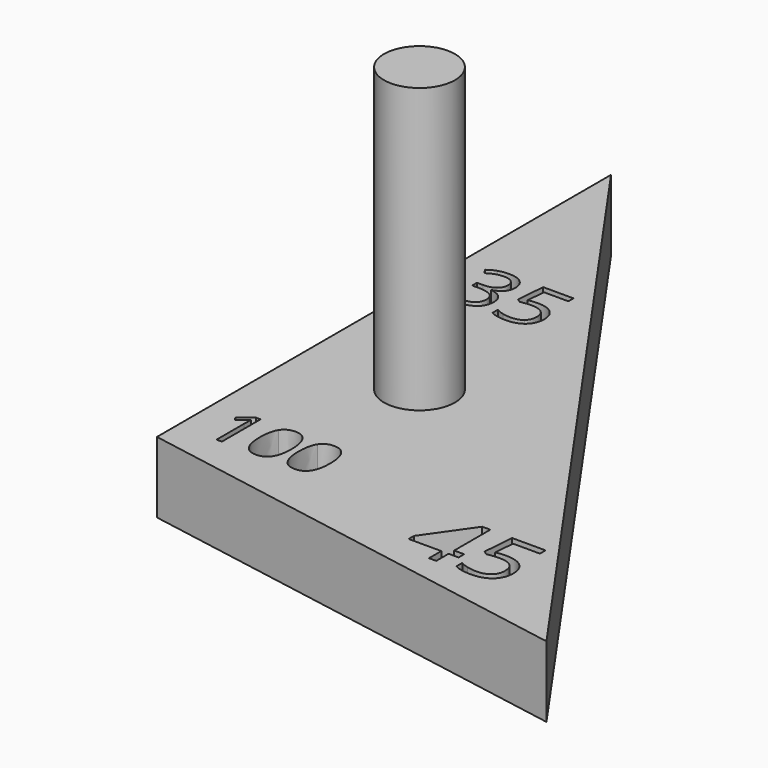
from build123d import *

# Parameters (mm, degrees)
F1_DEPTH = 6.35
F2_R     = 3.175
F3_DEPTH = 25.4


with BuildPart() as f1:
    # F0 (on Top) → F1 (new body)
    with BuildSketch(Plane.XY):
        Polygon((0, 50.8), (0, 0), (40.5808809275, -7.1555042084), align=None)
        with BuildLine():
            Line((3.9918560175, 6.6033309618), (3.9918560175, 2.2795035038))
            Line((3.9918560175, 2.2795035038), (3.5130079777, 2.2795035038))
            Line((3.5130079777, 2.2795035038), (3.5130079777, 5.3607865423))
            add(Edge.make_bspline(
                [(3.5130079777, 5.3607865423), (3.5130079777, 5.7459469222), (3.5366664777, 6.088522002)],
                knots=[0, 0, 0, 1, 1, 1], degree=2))
            add(Edge.make_bspline(
                [(3.5366664777, 6.088522002), (3.4751543778, 6.026063562), (3.3980276678, 5.9584002521)],
                knots=[0, 0, 0, 1, 1, 1], degree=2))
            add(Edge.make_bspline(
                [(3.3980276678, 5.9584002521), (3.3209009578, 5.8907369421), (2.6944238781, 5.3816060223)],
                knots=[0, 0, 0, 1, 1, 1], degree=2))
            Line((2.6944238781, 5.3816060223), (2.4341803783, 5.7185030622))
            Line((2.4341803783, 5.7185030622), (3.5783054377, 6.6033309618))
            Line((3.5783054377, 6.6033309618), (3.9918560175, 6.6033309618))
        make_face(mode=Mode.SUBTRACT)
        with BuildLine():
            add(Edge.make_bspline(
                [(8.1368252155, 6.100351252), (8.5021124554, 5.5292350623), (8.5021124554, 4.4475684428)],
                knots=[0, 0, 0, 1, 1, 1], degree=2))
            add(Edge.make_bspline(
                [(8.5021124554, 4.4475684428), (8.5021124554, 3.3261555433), (8.1486544655, 2.7730198136)],
                knots=[0, 0, 0, 1, 1, 1], degree=2))
            add(Edge.make_bspline(
                [(8.1486544655, 2.7730198136), (7.7951964757, 2.2198840838), (7.067461016, 2.2198840838)],
                knots=[0, 0, 0, 1, 1, 1], degree=2))
            add(Edge.make_bspline(
                [(7.067461016, 2.2198840838), (6.3700084364, 2.2198840838), (6.0061407066, 2.7862685736)],
                knots=[0, 0, 0, 1, 1, 1], degree=2))
            add(Edge.make_bspline(
                [(6.0061407066, 2.7862685736), (5.6422729767, 3.3526530633), (5.6422729767, 4.4475684428)],
                knots=[0, 0, 0, 1, 1, 1], degree=2))
            add(Edge.make_bspline(
                [(5.6422729767, 4.4475684428), (5.6422729767, 5.5765520622), (5.9943114566, 6.124009752)],
                knots=[0, 0, 0, 1, 1, 1], degree=2))
            add(Edge.make_bspline(
                [(5.9943114566, 6.124009752), (6.3463499364, 6.6714674417), (7.067461016, 6.6714674417)],
                knots=[0, 0, 0, 1, 1, 1], degree=2))
            add(Edge.make_bspline(
                [(7.067461016, 6.6714674417), (7.7715379757, 6.6714674417), (8.1368252155, 6.100351252)],
                knots=[0, 0, 0, 1, 1, 1], degree=2))
        make_face(mode=Mode.SUBTRACT)
        with BuildLine():
            add(Edge.make_bspline(
                [(11.5994832739, 6.100351252), (11.9647705137, 5.5292350623), (11.9647705137, 4.4475684428)],
                knots=[0, 0, 0, 1, 1, 1], degree=2))
            add(Edge.make_bspline(
                [(11.9647705137, 4.4475684428), (11.9647705137, 3.3261555433), (11.6113125239, 2.7730198136)],
                knots=[0, 0, 0, 1, 1, 1], degree=2))
            add(Edge.make_bspline(
                [(11.6113125239, 2.7730198136), (11.2578545341, 2.2198840838), (10.5301190744, 2.2198840838)],
                knots=[0, 0, 0, 1, 1, 1], degree=2))
            add(Edge.make_bspline(
                [(10.5301190744, 2.2198840838), (9.8326664947, 2.2198840838), (9.4687987649, 2.7862685736)],
                knots=[0, 0, 0, 1, 1, 1], degree=2))
            add(Edge.make_bspline(
                [(9.4687987649, 2.7862685736), (9.1049310351, 3.3526530633), (9.1049310351, 4.4475684428)],
                knots=[0, 0, 0, 1, 1, 1], degree=2))
            add(Edge.make_bspline(
                [(9.1049310351, 4.4475684428), (9.1049310351, 5.5765520622), (9.4569695149, 6.124009752)],
                knots=[0, 0, 0, 1, 1, 1], degree=2))
            add(Edge.make_bspline(
                [(9.4569695149, 6.124009752), (9.8090079947, 6.6714674417), (10.5301190744, 6.6714674417)],
                knots=[0, 0, 0, 1, 1, 1], degree=2))
            add(Edge.make_bspline(
                [(10.5301190744, 6.6714674417), (11.2341960341, 6.6714674417), (11.5994832739, 6.100351252)],
                knots=[0, 0, 0, 1, 1, 1], degree=2))
        make_face(mode=Mode.SUBTRACT)
        Polygon((27.8564916644, -0.4564887798), (27.8564916644, -1.0779461554), (26.9638050104, -1.0779461554), (26.9638050104, -2.4604254868), (26.3094314602, -2.4604254868), (26.3094314602, -1.0779461554), (23.3838418656, -1.0779461554), (23.3838418656, -0.4815050725), (26.2396491701, 3.5882507497), (26.9638050104, 3.5882507497), (26.9638050104, -0.4564887798), align=None, mode=Mode.SUBTRACT)
        with BuildLine():
            add(Edge.make_bspline(
                [(29.3745856349, 1.119537658), (29.8472619015, 1.2143362407), (30.3173048742, 1.2143362407)],
                knots=[0, 0, 0, 1, 1, 1], degree=2))
            add(Edge.make_bspline(
                [(30.3173048742, 1.2143362407), (31.2679239954, 1.2143362407), (31.813015846, 0.742976621)],
                knots=[0, 0, 0, 1, 1, 1], degree=2))
            add(Edge.make_bspline(
                [(31.813015846, 0.742976621), (32.3581076967, 0.2716170014), (32.3581076967, -0.5473374216)],
                knots=[0, 0, 0, 1, 1, 1], degree=2))
            add(Edge.make_bspline(
                [(32.3581076967, -0.5473374216), (32.3581076967, -1.480840132), (31.7636415842, -2.0121071893)],
                knots=[0, 0, 0, 1, 1, 1], degree=2))
            add(Edge.make_bspline(
                [(31.7636415842, -2.0121071893), (31.1691754717, -2.5433742467), (30.1237577678, -2.5433742467)],
                knots=[0, 0, 0, 1, 1, 1], degree=2))
            add(Edge.make_bspline(
                [(30.1237577678, -2.5433742467), (29.1073062975, -2.5433742467), (28.5727476227, -2.2181624421)],
                knots=[0, 0, 0, 1, 1, 1], degree=2))
            Line((28.5727476227, -2.2181624421), (28.5727476227, -1.5598389509))
            add(Edge.make_bspline(
                [(28.5727476227, -1.5598389509), (28.8597766648, -1.7441695284), (29.2876869341, -1.849501287)],
                knots=[0, 0, 0, 1, 1, 1], degree=2))
            add(Edge.make_bspline(
                [(29.2876869341, -1.849501287), (29.7155972033, -1.9548330456), (30.1316576497, -1.9548330456)],
                knots=[0, 0, 0, 1, 1, 1], degree=2))
            add(Edge.make_bspline(
                [(30.1316576497, -1.9548330456), (30.8558134899, -1.9548330456), (31.256732496, -1.6131631537)],
                knots=[0, 0, 0, 1, 1, 1], degree=2))
            add(Edge.make_bspline(
                [(31.256732496, -1.6131631537), (31.6576515021, -1.2714932618), (31.6576515021, -0.6250195935)],
                knots=[0, 0, 0, 1, 1, 1], degree=2))
            add(Edge.make_bspline(
                [(31.6576515021, -0.6250195935), (31.6576515021, 0.6336949215), (30.1158578859, 0.6336949215)],
                knots=[0, 0, 0, 1, 1, 1], degree=2))
            add(Edge.make_bspline(
                [(30.1158578859, 0.6336949215), (29.7248137322, 0.6336949215), (29.070440182, 0.5138800461)],
                knots=[0, 0, 0, 1, 1, 1], degree=2))
            Line((29.070440182, 0.5138800461), (28.7162621438, 0.7403433271))
            Line((28.7162621438, 0.7403433271), (28.9427254247, 3.5553345751))
            Line((28.9427254247, 3.5553345751), (31.9341473684, 3.5553345751))
            Line((31.9341473684, 3.5553345751), (31.9341473684, 2.9259773176))
            Line((31.9341473684, 2.9259773176), (29.5273166848, 2.9259773176))
            Line((29.5273166848, 2.9259773176), (29.3745856349, 1.119537658))
        make_face(mode=Mode.SUBTRACT)
        with BuildLine():
            add(Edge.make_bspline(
                [(5.0239537206, 34.2728606786), (5.4651021183, 33.9088235862), (5.4651021183, 33.2740002822)],
                knots=[0, 0, 0, 1, 1, 1], degree=2))
            add(Edge.make_bspline(
                [(5.4651021183, 33.2740002822), (5.4651021183, 32.7503607207), (5.1716009486, 32.4180050173)],
                knots=[0, 0, 0, 1, 1, 1], degree=2))
            add(Edge.make_bspline(
                [(5.1716009486, 32.4180050173), (4.8780997788, 32.0856493139), (4.340113928, 31.9732700473)],
                knots=[0, 0, 0, 1, 1, 1], degree=2))
            Line((4.340113928, 31.9732700473), (4.340113928, 31.9433819444))
            add(Edge.make_bspline(
                [(4.340113928, 31.9433819444), (4.9976521901, 31.8620863047), (5.3150638421, 31.5255462669)],
                knots=[0, 0, 0, 1, 1, 1], degree=2))
            add(Edge.make_bspline(
                [(5.3150638421, 31.5255462669), (5.6324754941, 31.1890062291), (5.6324754941, 30.6438472336)],
                knots=[0, 0, 0, 1, 1, 1], degree=2))
            add(Edge.make_bspline(
                [(5.6324754941, 30.6438472336), (5.6324754941, 29.8631699879), (5.0909030709, 29.4423455001)],
                knots=[0, 0, 0, 1, 1, 1], degree=2))
            add(Edge.make_bspline(
                [(5.0909030709, 29.4423455001), (4.5493306478, 29.0215210123), (3.5522635375, 29.0215210123)],
                knots=[0, 0, 0, 1, 1, 1], degree=2))
            add(Edge.make_bspline(
                [(3.5522635375, 29.0215210123), (3.1182882845, 29.0215210123), (2.7578377645, 29.0872748385)],
                knots=[0, 0, 0, 1, 1, 1], degree=2))
            add(Edge.make_bspline(
                [(2.7578377645, 29.0872748385), (2.3973872444, 29.1530286648), (2.0578583963, 29.3168154682)],
                knots=[0, 0, 0, 1, 1, 1], degree=2))
            Line((2.0578583963, 29.3168154682), (2.0578583963, 29.90740438))
            add(Edge.make_bspline(
                [(2.0578583963, 29.90740438), (2.4129290579, 29.7316623354), (2.8146251598, 29.6402047408)],
                knots=[0, 0, 0, 1, 1, 1], degree=2))
            add(Edge.make_bspline(
                [(2.8146251598, 29.6402047408), (3.2163212618, 29.5487471461), (3.5749784957, 29.5487471461)],
                knots=[0, 0, 0, 1, 1, 1], degree=2))
            add(Edge.make_bspline(
                [(3.5749784957, 29.5487471461), (4.9904790454, 29.5487471461), (4.9904790454, 30.658193523)],
                knots=[0, 0, 0, 1, 1, 1], degree=2))
            add(Edge.make_bspline(
                [(4.9904790454, 30.658193523), (4.9904790454, 31.652869585), (3.4291245539, 31.652869585)],
                knots=[0, 0, 0, 1, 1, 1], degree=2))
            Line((3.4291245539, 31.652869585), (2.8911387031, 31.652869585))
            Line((2.8911387031, 31.652869585), (2.8911387031, 32.1860733394))
            Line((2.8911387031, 32.1860733394), (3.4362976986, 32.1860733394))
            add(Edge.make_bspline(
                [(3.4362976986, 32.1860733394), (4.0747075749, 32.1860733394), (4.4483088602, 32.46821703)],
                knots=[0, 0, 0, 1, 1, 1], degree=2))
            add(Edge.make_bspline(
                [(4.4483088602, 32.46821703), (4.8219101455, 32.7503607207), (4.8219101455, 33.251285324)],
                knots=[0, 0, 0, 1, 1, 1], degree=2))
            add(Edge.make_bspline(
                [(4.8219101455, 33.251285324), (4.8219101455, 33.6505903778), (4.5475373616, 33.8789354833)],
                knots=[0, 0, 0, 1, 1, 1], degree=2))
            add(Edge.make_bspline(
                [(4.5475373616, 33.8789354833), (4.2731645777, 34.1072805889), (3.8021280771, 34.1072805889)],
                knots=[0, 0, 0, 1, 1, 1], degree=2))
            add(Edge.make_bspline(
                [(3.8021280771, 34.1072805889), (3.4434708433, 34.1072805889), (3.1260591913, 34.0098453737)],
                knots=[0, 0, 0, 1, 1, 1], degree=2))
            add(Edge.make_bspline(
                [(3.1260591913, 34.0098453737), (2.8086475393, 33.9124101585), (2.4009738167, 33.6505903778)],
                knots=[0, 0, 0, 1, 1, 1], degree=2))
            Line((2.4009738167, 33.6505903778), (2.0877464991, 34.0690238173))
            add(Edge.make_bspline(
                [(2.0877464991, 34.0690238173), (2.4236887749, 34.3344301704), (2.8624461243, 34.4856639707)],
                knots=[0, 0, 0, 1, 1, 1], degree=2))
            add(Edge.make_bspline(
                [(2.8624461243, 34.4856639707), (3.3012034738, 34.636897771), (3.7877817878, 34.636897771)],
                knots=[0, 0, 0, 1, 1, 1], degree=2))
            add(Edge.make_bspline(
                [(3.7877817878, 34.636897771), (4.5828053229, 34.636897771), (5.0239537206, 34.2728606786)],
                knots=[0, 0, 0, 1, 1, 1], degree=2))
        make_face(mode=Mode.SUBTRACT)
        with BuildLine():
            add(Edge.make_bspline(
                [(7.3062092523, 32.3474690946), (7.7354024088, 32.4335468307), (8.1622045171, 32.4335468307)],
                knots=[0, 0, 0, 1, 1, 1], degree=2))
            add(Edge.make_bspline(
                [(8.1622045171, 32.4335468307), (9.0253729267, 32.4335468307), (9.5203199095, 32.0055491983)],
                knots=[0, 0, 0, 1, 1, 1], degree=2))
            add(Edge.make_bspline(
                [(9.5203199095, 32.0055491983), (10.0152668923, 31.5775515659), (10.0152668923, 30.8339355676)],
                knots=[0, 0, 0, 1, 1, 1], degree=2))
            add(Edge.make_bspline(
                [(10.0152668923, 30.8339355676), (10.0152668923, 29.9863089715), (9.4754877552, 29.5039149919)],
                knots=[0, 0, 0, 1, 1, 1], degree=2))
            add(Edge.make_bspline(
                [(9.4754877552, 29.5039149919), (8.9357086182, 29.0215210123), (7.9864624725, 29.0215210123)],
                knots=[0, 0, 0, 1, 1, 1], degree=2))
            add(Edge.make_bspline(
                [(7.9864624725, 29.0215210123), (7.0635178573, 29.0215210123), (6.5781350675, 29.3168154682)],
                knots=[0, 0, 0, 1, 1, 1], degree=2))
            Line((6.5781350675, 29.3168154682), (6.5781350675, 29.9145775247))
            add(Edge.make_bspline(
                [(6.5781350675, 29.9145775247), (6.8387593241, 29.7472041489), (7.2273046608, 29.6515622199)],
                knots=[0, 0, 0, 1, 1, 1], degree=2))
            add(Edge.make_bspline(
                [(7.2273046608, 29.6515622199), (7.6158499975, 29.5559202908), (7.9936356172, 29.5559202908)],
                knots=[0, 0, 0, 1, 1, 1], degree=2))
            add(Edge.make_bspline(
                [(7.9936356172, 29.5559202908), (8.6511738794, 29.5559202908), (9.0152109718, 29.8661587981)],
                knots=[0, 0, 0, 1, 1, 1], degree=2))
            add(Edge.make_bspline(
                [(9.0152109718, 29.8661587981), (9.3792480642, 30.1763973055), (9.3792480642, 30.7633996449)],
                knots=[0, 0, 0, 1, 1, 1], degree=2))
            add(Edge.make_bspline(
                [(9.3792480642, 30.7633996449), (9.3792480642, 31.9063206969), (7.9792893279, 31.9063206969)],
                knots=[0, 0, 0, 1, 1, 1], degree=2))
            add(Edge.make_bspline(
                [(7.9792893279, 31.9063206969), (7.6242186663, 31.9063206969), (7.0300431822, 31.7975280026)],
                knots=[0, 0, 0, 1, 1, 1], degree=2))
            Line((7.0300431822, 31.7975280026), (6.7084471958, 32.0031581501))
            Line((6.7084471958, 32.0031581501), (6.9140773432, 34.5591887036))
            Line((6.9140773432, 34.5591887036), (9.6303081279, 34.5591887036))
            Line((9.6303081279, 34.5591887036), (9.6303081279, 33.9877281776))
            Line((9.6303081279, 33.9877281776), (7.4448900494, 33.9877281776))
            Line((7.4448900494, 33.9877281776), (7.3062092523, 32.3474690946))
        make_face(mode=Mode.SUBTRACT)
    extrude(amount=F1_DEPTH)

    # F2 (on face) → F3 (join)
    with BuildSketch(Plane.XY.offset(6.35)):
        with Locations((9.8408134654, 17.0680824667)):
            Circle(F2_R)
    extrude(amount=F3_DEPTH)


solid = f1.part
